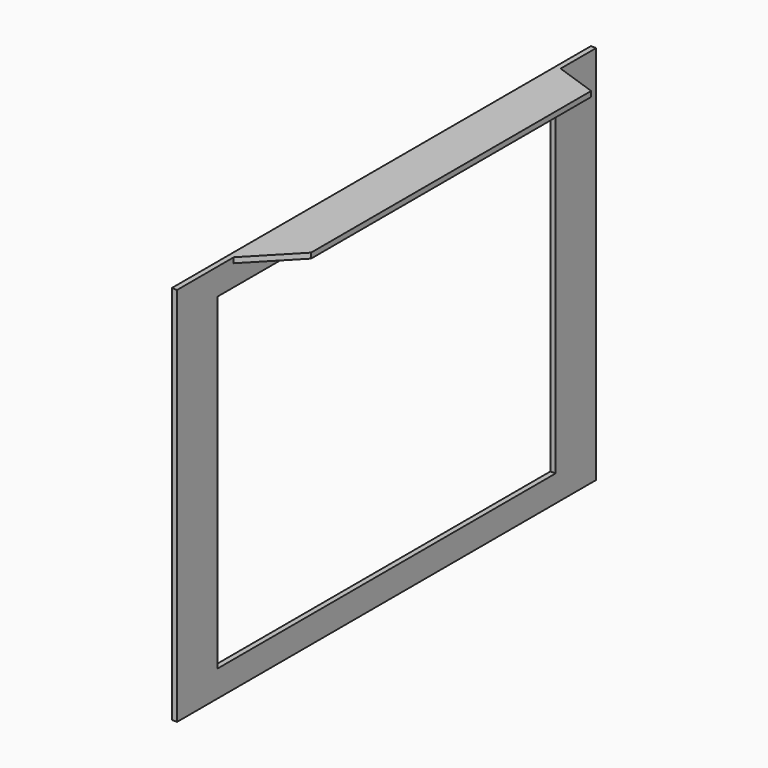
from build123d import *

# Parameters (mm, degrees)
F0_W     = 1.5875
F0_H     = 157.48
F1_DEPTH = 114.3
F2_W     = 127
F2_H     = 98.425
F3_DEPTH = 25.4
F5_DEPTH = 12.7
F7_DEPTH = 25.4


with BuildPart() as f1:
    # F0 (on Top) → F1 (new body)
    with BuildSketch(Plane.XY):
        Rectangle(F0_W, F0_H)
    extrude(amount=F1_DEPTH)

    # F2 (on face) → F3 (cut)
    with BuildSketch(Plane.YZ.offset(0.79375)):
        with Locations((0, 57.15)):
            Rectangle(F2_W, F2_H)
    extrude(amount=-F3_DEPTH, mode=Mode.SUBTRACT)

    # F4 (on face) → F5 (join)
    with BuildSketch(Plane.YZ.offset(0.79375)):
        Polygon((65.367989, 114.3), (62.865354, 114.3), (-57.063892, 114.3), (-57.451416, 114.3), (-57.451416, 112.7125), (-57.063892, 112.7125), (62.865354, 112.7125), (65.367989, 112.7125), align=None)
    extrude(amount=F5_DEPTH)

    # F6 (on face) → F7 (cut)
    with BuildSketch(Plane.XY.offset(114.3)):
        Polygon((13.49375, 65.367989), (0.79375, 65.367989), (13.49375, 60.973775), align=None)
        Polygon((13.49375, -44.278976), (0.79375, -57.451416), (13.49375, -57.451416), align=None)
    extrude(amount=-F7_DEPTH, mode=Mode.SUBTRACT)


solid = f1.part
